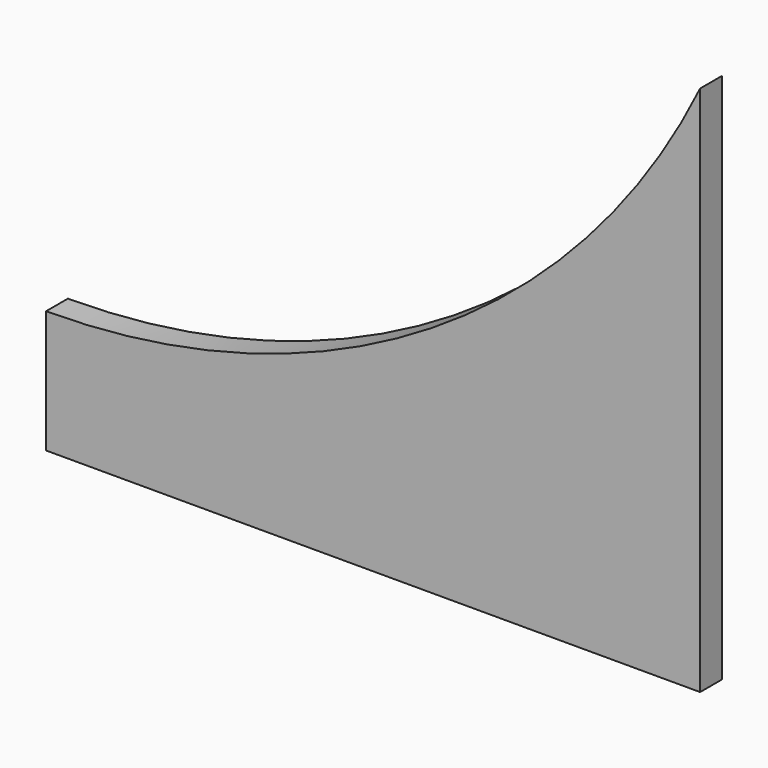
from build123d import *

# Parameters (mm, degrees)
F0_W     = 240
F0_H     = 45
F1_DEPTH = 10


with BuildPart() as f1:
    # F0 (on Front) → F1 (new body)
    with BuildSketch(Plane.XZ):
        with BuildLine():
            Line((-120, 22.5), (120, 22.5))
            Line((120, 22.5), (120, 172.5))
            ThreePointArc((120, 172.5), (21.509717, 63.084453), (-120, 22.5))
        make_face()
        Rectangle(F0_W, F0_H)
    extrude(amount=F1_DEPTH)


solid = f1.part
